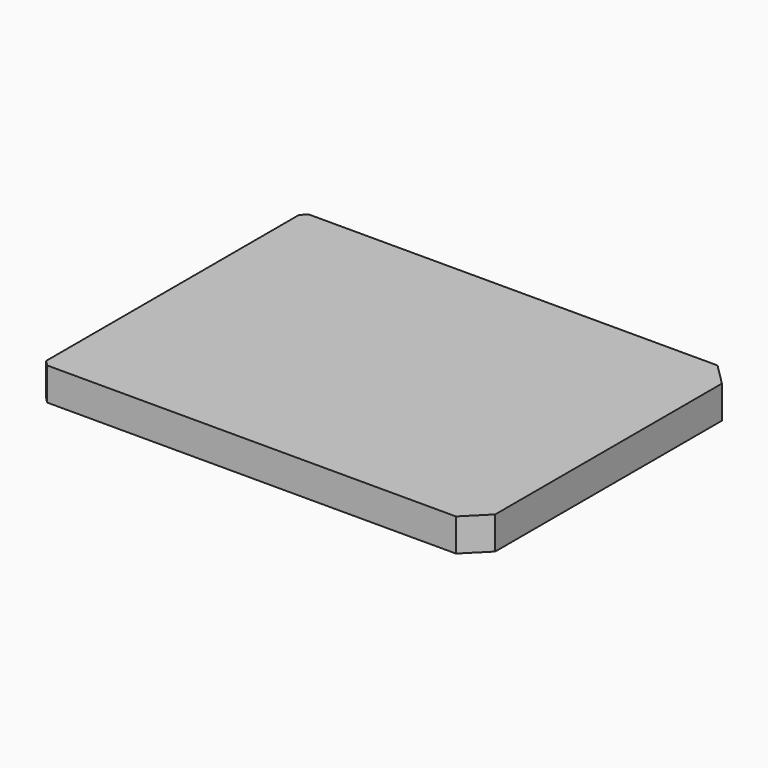
from build123d import *

# Parameters (mm, degrees)
F0_W     = 400
F0_H     = 300
F1_DEPTH = 30
F2_SIZE  = 20
F3_SIZE  = 5
F4_T     = -3


with BuildPart() as f1:
    # F0 (on Top) → F1 (new body)
    with BuildSketch(Plane.XY):
        Rectangle(F0_W, F0_H)
    extrude(amount=F1_DEPTH)

    # F2
    f2_edges = [f1.edges().sort_by_distance(p)[0] for p in [
        (200, -150, 15),
        (200, 150, 15),
    ]]
    chamfer(f2_edges, length=F2_SIZE)

    # F3
    f3_edges = [f1.edges().sort_by_distance(p)[0] for p in [
        (-200, -150, 15),
        (-200, 150, 15),
    ]]
    chamfer(f3_edges, length=F3_SIZE)

    # F4
    f4_openings = [f1.faces().sort_by_distance(p)[0] for p in [
        (-200, 0, 15),
    ]]
    offset(amount=F4_T, openings=f4_openings)


solid = f1.part
